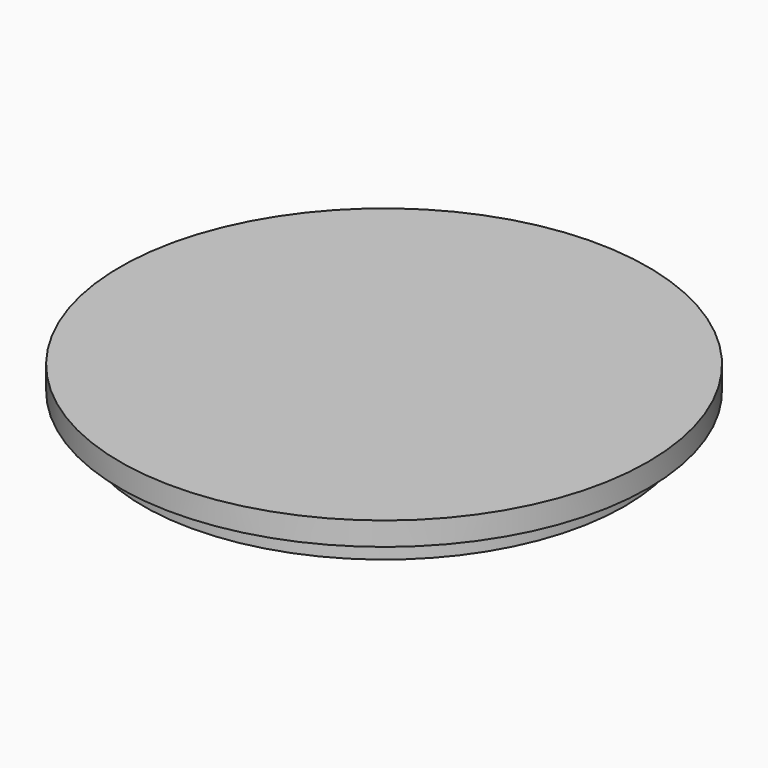
from build123d import *

# Parameters (mm, degrees)
CYLINDER048_R             = 31
CYLINDER048_DEPTH         = 6
CYLINDER047_R             = 34
CYLINDER047_DEPTH         = 3
FUSION025_PLACEMENT_ANGLE = 180


with BuildPart() as cylinder048:
    # Cylinder048 → Cylinder048 (new body)
    with BuildSketch(Plane.XY):
        Circle(CYLINDER048_R)
    extrude(amount=CYLINDER048_DEPTH)


with BuildPart() as cap:
    # Cylinder047 → Cylinder047 (new body)
    with BuildSketch(Plane.XY):
        Circle(CYLINDER047_R)
    extrude(amount=CYLINDER047_DEPTH)

    # Fusion025: union Cylinder048
    add(cylinder048.part)


with BuildPart() as cap_1:
    # Fusion025 placement: moved
    add(cap.part.moved(Location((39, 41, 88))).rotate(Axis((39, 41, 88), (1, 0, 0)), FUSION025_PLACEMENT_ANGLE))


solid = cap_1.part
